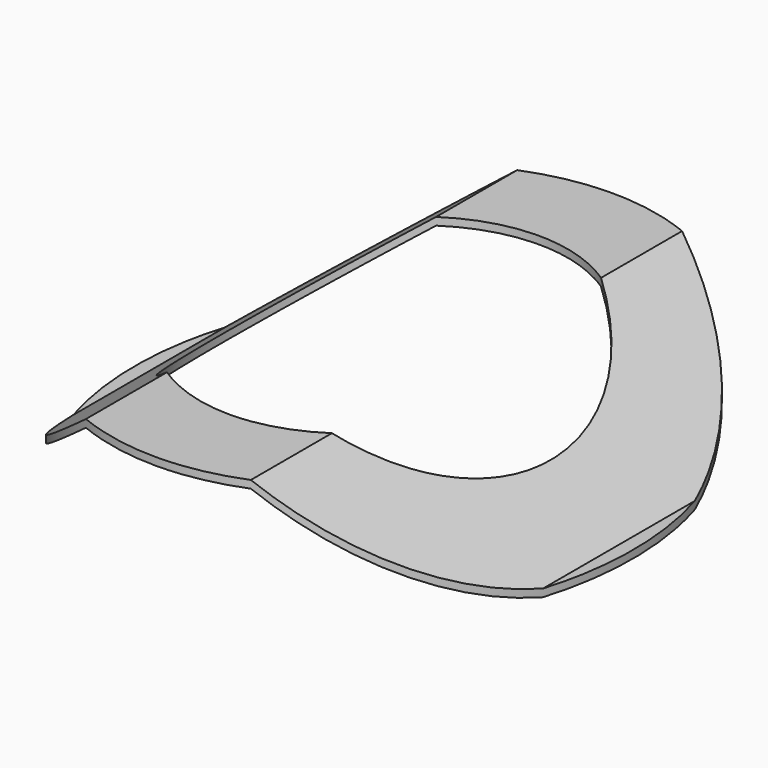
from build123d import *

# Parameters (mm, degrees)
F1_DEPTH = 7.45
F3_DEPTH = 25
F2_W     = 19.3785689771
F2_H     = 18.396246247
F4_DEPTH = 25


with BuildPart() as f1:
    # F0 (on Front) → F1 (new body, symmetric)
    with BuildSketch(Plane.XZ):
        Polygon((-7.3248373872, 0.2), (-7.3248373872, 0), (-6.1248373872, 0), (-2.15, 3.05), (2.15, 3.05), (6.1248373872, 0), (7.3248373872, 0), (7.3248373872, 0.2), (6.1248373872, 0.2), (2.15, 3.25), (-2.15, 3.25), (-6.1248373872, 0.2), align=None)
    extrude(amount=F1_DEPTH, both=True)

    # F2 (on Top) → F3 (cut)
    with BuildSketch(Plane.XY):
        with BuildLine():
            add(Edge.make_bspline(
                [(0, -5.0460048951), (7.5276090923, -5.0460048951), (3.7638045462, 2.5230024476), (0, 10.0920097902), (-3.7638045462, 2.5230024476), (-7.5276090923, -5.0460048951), (0, -5.0460048951)],
                knots=[0, 0, 0, 2.0943951024, 2.0943951024, 4.1887902048, 4.1887902048, 6.2831853072, 6.2831853072, 6.2831853072], degree=2, weights=[1, 0.5, 1, 0.5, 1, 0.5, 1]))
        make_face()
    extrude(amount=F3_DEPTH, mode=Mode.SUBTRACT)

    # F2 (on Top) → F4 (cut)
    with BuildSketch(Plane.XY):
        with Locations((-0.3213128075, -0.4113703035)):
            Rectangle(F2_W, F2_H)
        with BuildLine():
            add(Edge.make_bspline(
                [(0, -7.4477661401), (11.2470944428, -7.4477661401), (5.6235472214, 3.7238830701), (0, 14.8955322802), (-5.6235472214, 3.7238830701), (-11.2470944428, -7.4477661401), (0, -7.4477661401)],
                knots=[0, 0, 0, 2.0943951024, 2.0943951024, 4.1887902048, 4.1887902048, 6.2831853072, 6.2831853072, 6.2831853072], degree=2, weights=[1, 0.5, 1, 0.5, 1, 0.5, 1]))
        make_face(mode=Mode.SUBTRACT)
    extrude(amount=F4_DEPTH, mode=Mode.SUBTRACT)


solid = f1.part
